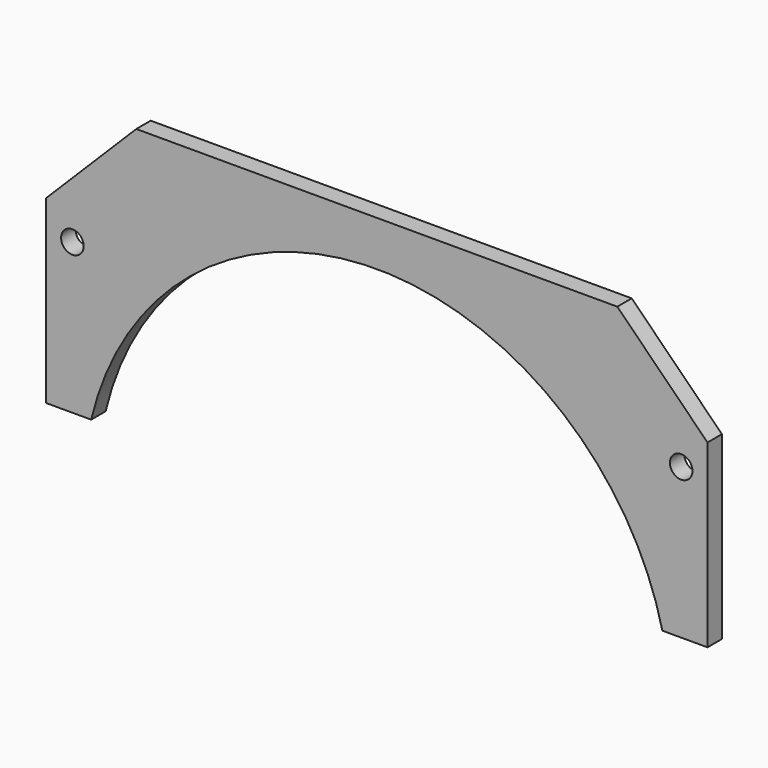
from build123d import *

# Parameters (mm, degrees)
F0_R     = 7.5
F1_DEPTH = 12


with BuildPart() as f1:
    # F0 (on Front) → F1 (new body)
    with BuildSketch(Plane.XZ):
        with BuildLine():
            ThreePointArc((0, 0), (190, 150.027898), (380, 0))
            Line((380, 0), (410, 0))
            Line((410, 0), (410, 120))
            Line((410, 120), (350, 180))
            Line((350, 180), (30, 180))
            Line((30, 180), (-30, 120))
            Line((-30, 120), (-30, 0))
            Line((-30, 0), (0, 0))
        make_face()
        with Locations((-12.5, 100)):
            Circle(F0_R, mode=Mode.SUBTRACT)
        with Locations((392.5, 100)):
            Circle(F0_R, mode=Mode.SUBTRACT)
    extrude(amount=F1_DEPTH)


solid = f1.part
